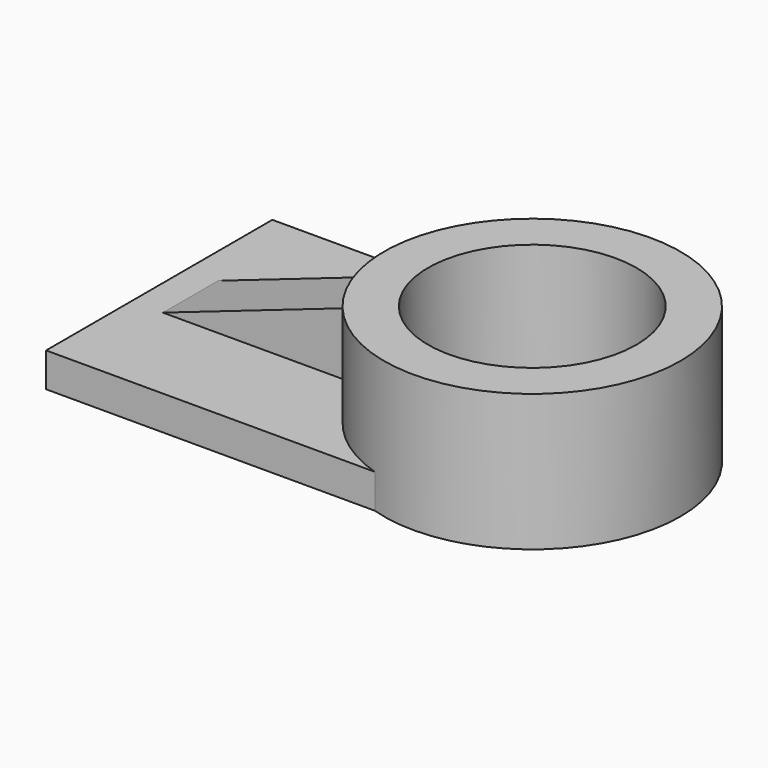
from build123d import *

# Parameters (mm, degrees)
F0_W      = 121.971261
F0_H      = 116.605956
F1_DEPTH  = 12.7
F2_R      = 54.989942
F3_DEPTH  = 50.8
F4_R      = 38.676946
F5_DEPTH  = 101.6
F7_DEPTH  = 25.4
F9_DEPTH  = 50.8
F10_W     = 121.971261
F10_H     = 6.011137
F11_DEPTH = 25.4
F12_W     = 121.971261
F12_H     = 5.653453
F13_DEPTH = 25.4


with BuildPart() as f1:
    # F0 (on Top) → F1 (new body)
    with BuildSketch(Plane.XY):
        with Locations((-15.559384, -0.178842)):
            Rectangle(F0_W, F0_H)
    extrude(amount=F1_DEPTH)

    # F2 (on Top) → F3 (join)
    with BuildSketch(Plane.XY):
        with Locations((61.879851, 0)):
            Circle(F2_R)
    extrude(amount=F3_DEPTH)

    # F4 (on face) → F5 (cut)
    with BuildSketch(Plane.XY.offset(50.8)):
        with Locations((61.879851, 0)):
            Circle(F4_R)
    extrude(amount=-F5_DEPTH, mode=Mode.SUBTRACT)

    # F6 (on face) → F7 (join)
    with BuildSketch(Plane.XY.offset(12.7)):
        with BuildLine():
            ThreePointArc((8.404423, -12.816874), (6.889909, 0), (8.404423, 12.816874))
            Line((8.404423, 12.816874), (-64.918965, 12.816874))
            Line((-64.918965, 12.816874), (-64.918965, -12.816874))
            Line((-64.918965, -12.816874), (8.404423, -12.816874))
        make_face()
    extrude(amount=F7_DEPTH)

    # F8 (on face) → F9 (cut)
    with BuildSketch(Plane.XZ.offset(12.816874)):
        Polygon((-64.918965, 12.7), (8.404423, 38.1), (-64.918965, 38.1), align=None)
    extrude(amount=-F9_DEPTH, mode=Mode.SUBTRACT)

    # F10 (on face) → F11 (cut)
    with BuildSketch(Plane.XY.offset(12.7)):
        with Locations((-15.559384, -55.476252)):
            Rectangle(F10_W, F10_H)
    extrude(amount=-F11_DEPTH, mode=Mode.SUBTRACT)

    # F12 (on face) → F13 (cut)
    with BuildSketch(Plane.XY.offset(12.7)):
        with Locations((-15.559384, 55.29741)):
            Rectangle(F12_W, F12_H)
    extrude(amount=-F13_DEPTH, mode=Mode.SUBTRACT)


solid = f1.part
